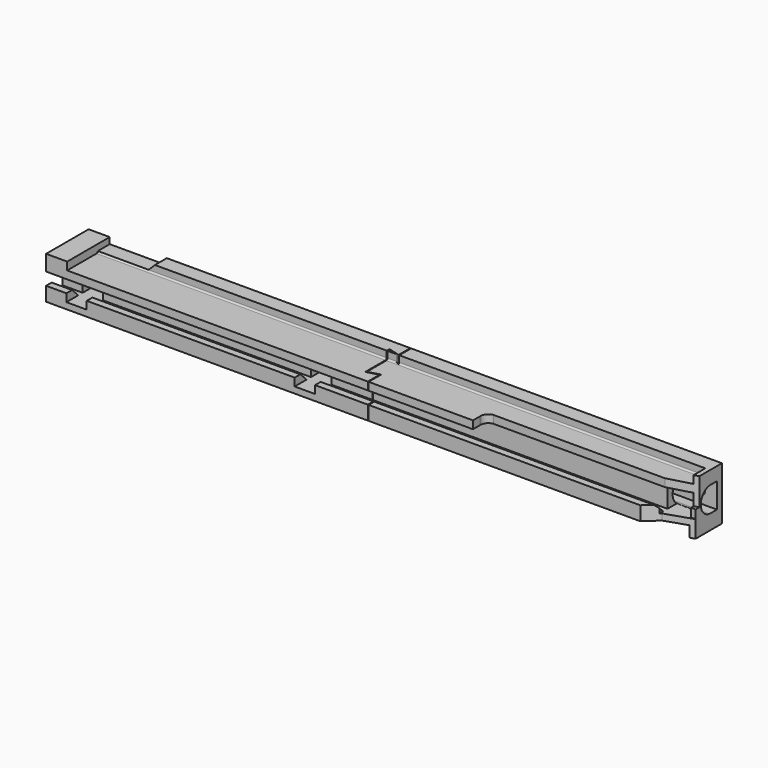
from build123d import *

# Parameters (mm, degrees)
F0_W      = 405
F0_H      = 34
F1_DEPTH  = 34
F2_W      = 402
F2_H      = 7
F3_DEPTH  = 29
F4_W      = 382
F4_H      = 5
F5_DEPTH  = 24.5
F6_R      = 6
F8_DEPTH  = 405.001
F10_DEPTH = 34.001
F11_W     = 13
F11_H     = 13
F12_DEPTH = 30
F13_R     = 2.75
F14_DEPTH = 4.001
F15_W     = 13
F15_H     = 13
F16_DEPTH = 29
F17_R     = 2.75
F18_DEPTH = 5.001
F19_W     = 15
F19_H     = 13
F20_DEPTH = 29
F21_R     = 2.75
F22_DEPTH = 5.001
F24_DEPTH = 12.5
F26_DEPTH = 25
F27_W     = 6.5
F27_H     = 5
F28_DEPTH = 25
F29_R     = 1
F31_DEPTH = 405.001
F33_DEPTH = 17.5


with BuildPart() as f1:
    # F0 (on Front) → F1 (new body)
    with BuildSketch(Plane.XZ):
        Rectangle(F0_W, F0_H)
    extrude(amount=F1_DEPTH)

    # F2 (on face) → F3 (cut)
    with BuildSketch(Plane.XZ.offset(34)):
        with Locations((-1.5, -13.5)):
            Rectangle(F2_W, F2_H)
    extrude(amount=-F3_DEPTH, mode=Mode.SUBTRACT)

    # F4 (on face) → F5 (cut)
    with BuildSketch(Plane.XZ.offset(34)):
        with Locations((2, 14.5)):
            Rectangle(F4_W, F4_H)
    extrude(amount=-F5_DEPTH, mode=Mode.SUBTRACT)

    # F6
    f6_edges = [f1.edges().sort_by_distance(p)[0] for p in [
        (-1.5, -5, -10),
    ]]
    fillet(f6_edges, radius=F6_R)

    # F7 (on face) → F8 (cut, through all)
    with BuildSketch(Plane(origin=(-202.5, 0, 0), x_dir=(0, -1, 0), z_dir=(-1, 0, 0))):
        Polygon((34, -1), (34, 7), (21, 7), (21, -6), (24.5, -6), (29.5, -1), align=None)
    extrude(amount=-F8_DEPTH, mode=Mode.SUBTRACT)

    # F9 (on face) → F10 (cut, through all)
    with BuildSketch(Plane(origin=(0, 0, 0), x_dir=(-1, 0, 0), z_dir=(0, 1, 0))):
        Polygon((189, 13), (189, 17), (155.211314559, 17), (152.5, 17), (156.5, 13), align=None)
    extrude(amount=-F10_DEPTH, mode=Mode.SUBTRACT)

    # F11 (on face) → F12 (cut)
    with BuildSketch(Plane.XZ.offset(34)):
        with Locations((-183, 0.5)):
            Rectangle(F11_W, F11_H)
    extrude(amount=-F12_DEPTH, mode=Mode.SUBTRACT)

    # F13 (on face) → F14 (cut, through all)
    with BuildSketch(Plane.XZ.offset(4)):
        with Locations((-183, 0)):
            Circle(F13_R)
    extrude(amount=-F14_DEPTH, mode=Mode.SUBTRACT)

    # F15 (on face) → F16 (cut)
    with BuildSketch(Plane.XZ.offset(34)):
        with Locations((-37, 0.5)):
            Rectangle(F15_W, F15_H)
    extrude(amount=-F16_DEPTH, mode=Mode.SUBTRACT)

    # F17 (on face) → F18 (cut, through all)
    with BuildSketch(Plane.XZ.offset(5)):
        with Locations((-37, 0)):
            Circle(F17_R)
    extrude(amount=-F18_DEPTH, mode=Mode.SUBTRACT)

    # F19 (on face) → F20 (cut)
    with BuildSketch(Plane.XZ.offset(34)):
        with Locations((192, 0.5)):
            Rectangle(F19_W, F19_H)
    extrude(amount=-F20_DEPTH, mode=Mode.SUBTRACT)

    # F21 (on face) → F22 (cut, through all)
    with BuildSketch(Plane.XZ.offset(5)):
        with Locations((192, 0)):
            Circle(F21_R)
    extrude(amount=-F22_DEPTH, mode=Mode.SUBTRACT)

    # F23 (on face) → F24 (cut, symmetric)
    with BuildSketch(Plane.XY.offset(12)):
        with BuildLine():
            Line((70.5, -28.5), (70.5, -34))
            Line((70.5, -34), (202.5, -34))
            Line((202.5, -34), (202.5, -18))
            Line((202.5, -18), (184.5, -23))
            Line((184.5, -23), (74.7762184258, -23))
            ThreePointArc((74.7762184258, -23), (71.8829216759, -24.4682643392), (70.5, -27.4033101466))
            Line((70.5, -27.4033101466), (70.5, -28.5))
        make_face()
        with BuildLine():
            ThreePointArc((70.5, -27.4033101466), (70.4698408266, -27.9516550733), (70.5, -28.5))
            Line((70.5, -28.5), (70.5, -27.4033101466))
        make_face()
    extrude(amount=F24_DEPTH, both=True, mode=Mode.SUBTRACT)

    # F25 (on face) → F26 (cut)
    with BuildSketch(Plane.XY.offset(-1)):
        Polygon((185.5, -26.6178918779), (177.5, -34), (202.5, -34), (202.5, -21), align=None)
    extrude(amount=-F26_DEPTH, mode=Mode.SUBTRACT)

    # F27 (on face) → F28 (cut)
    with BuildSketch(Plane.XZ.offset(9.5)):
        with Locations((196.25, 14.5)):
            Rectangle(F27_W, F27_H)
    extrude(amount=F28_DEPTH, mode=Mode.SUBTRACT)

    # F29
    f29_edges = [f1.edges().sort_by_distance(p)[0] for p in [
        (5.25, -9.5, 12),
    ]]
    fillet(f29_edges, radius=F29_R)

    # F30 (on face) → F31 (cut, through all)
    with BuildSketch(Plane.YZ.offset(202.5)):
        with BuildLine():
            Line((-4, -7.5), (-4, -6))
            Line((-4, -6), (-4, 7))
            Line((-4, 7), (-4, 8.5))
            Line((-4, 8.5), (-9.8530706018, 8.5))
            ThreePointArc((-9.8530706018, 8.5), (-16.9070794038, 0.5), (-9.8530706018, -7.5))
            Line((-9.8530706018, -7.5), (-4, -7.5))
        make_face()
    extrude(amount=-F31_DEPTH, mode=Mode.SUBTRACT)

    # F32 (on Top) → F33 (cut, symmetric)
    with BuildSketch(Plane.XY):
        Polygon((3.7548480159, -24), (-3.7447481422, -26), (-3.7470709602, -14.5007571947), (-4.24707095, -14.5008581934), (-4.2446166965, -26.650779799), (3.2549794615, -24.650779799), (3.2558578603, -28.9993429166), (3.7558578501, -28.9992419178), align=None)
        Polygon((-4.24707095, -14.5008581934), (-3.7470709602, -14.5007571947), (-3.7483840967, -8), (3.7520200512, -10), (3.7500000765, 0), (3.2500000663, 0), (3.2518885746, -9.3491681538), (-4.2485155733, -7.3491681538), align=None)
        Polygon((3.7568679906, -34), (3.7558578501, -28.9992419178), (3.2558578603, -28.9993429166), (3.2568679804, -34), align=None)
    extrude(amount=F33_DEPTH, both=True, mode=Mode.SUBTRACT)


solid = f1.part
